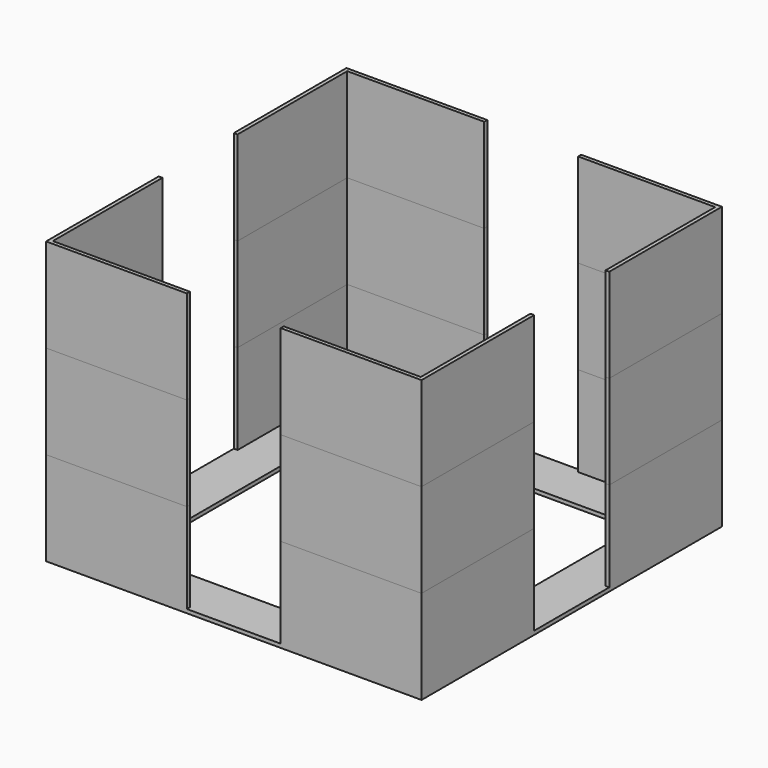
from build123d import *

# Parameters (mm, degrees)
F1_W     = 30
F1_H     = 30
F2_DEPTH = 0.4
F3_DEPTH = 10
F4_DEPTH = 10
F5_DEPTH = 10


with BuildPart() as f2:
    # F1 (on Top) → F2 (new body)
    with BuildSketch(Plane.XY):
        Polygon((-5, 20), (-20, 20), (-20, 5), (-19.6, 5), (-19.6, 19.6), (-5, 19.6), align=None)
        Polygon((20, 20), (5, 20), (5, 19.6), (19.6, 19.6), (19.6, 5), (20, 5), align=None)
        Polygon((5, 20), (-5, 20), (-5, 19.6), (-19.6, 19.6), (-19.6, 5), (-20, 5), (-20, -5), (-19.6, -5), (-19.6, -19.6), (-5, -19.6), (-5, -20), (5, -20), (5, -19.6), (19.6, -19.6), (19.6, -5), (20, -5), (20, 5), (19.6, 5), (19.6, 19.6), (5, 19.6), align=None)
        Rectangle(F1_W, F1_H, mode=Mode.SUBTRACT)
        Polygon((20, -20), (20, -5), (19.6, -5), (19.6, -19.6), (5, -19.6), (5, -20), align=None)
        Polygon((-19.6, -5), (-20, -5), (-20, -20), (-5, -20), (-5, -19.6), (-19.6, -19.6), align=None)
    extrude(amount=F2_DEPTH)

    # F1 (on Top) → F3 (join)
    with BuildSketch(Plane.XY):
        Polygon((20, -20), (20, -5), (19.6, -5), (19.6, -19.6), (5, -19.6), (5, -20), align=None)
        Polygon((-19.6, -5), (-20, -5), (-20, -20), (-5, -20), (-5, -19.6), (-19.6, -19.6), align=None)
        Polygon((20, 20), (5, 20), (5, 19.6), (19.6, 19.6), (19.6, 5), (20, 5), align=None)
        Polygon((-5, 20), (-20, 20), (-20, 5), (-19.6, 5), (-19.6, 19.6), (-5, 19.6), align=None)
    extrude(amount=F3_DEPTH)


with BuildPart() as f4:
    # F4 (new): a face of the model
    f4_faces = [f2.part.faces().sort_by_distance(p)[0] for p in [
        (-12.5, 19.7878679656, 10),
    ]]
    extrude(f4_faces, amount=F4_DEPTH)


with BuildPart() as f4b:
    # F4#2 (new): a face of the model
    f4_2_faces = [f2.part.faces().sort_by_distance(p)[0] for p in [
        (12.5, 19.7878679656, 10),
    ]]
    extrude(f4_2_faces, amount=F4_DEPTH)


with BuildPart() as f4c:
    # F4#3 (new): a face of the model
    f4_3_faces = [f2.part.faces().sort_by_distance(p)[0] for p in [
        (19.7878679656, -12.5, 10),
    ]]
    extrude(f4_3_faces, amount=F4_DEPTH)


with BuildPart() as f4d:
    # F4#4 (new): a face of the model
    f4_4_faces = [f2.part.faces().sort_by_distance(p)[0] for p in [
        (-19.8, -5.2121320344, 10),
    ]]
    extrude(f4_4_faces, amount=F4_DEPTH)


with BuildPart() as f5:
    # F5 (new): a face of the model
    f5_faces = [f4.part.faces().sort_by_distance(p)[0] for p in [
        (-12.5, 19.7878679656, 20),
    ]]
    extrude(f5_faces, amount=F5_DEPTH)


with BuildPart() as f5b:
    # F5#2 (new): a face of the model
    f5_2_faces = [f4b.part.faces().sort_by_distance(p)[0] for p in [
        (12.5, 19.7878679656, 20),
    ]]
    extrude(f5_2_faces, amount=F5_DEPTH)


with BuildPart() as f5c:
    # F5#3 (new): a face of the model
    f5_3_faces = [f4c.part.faces().sort_by_distance(p)[0] for p in [
        (19.7878679656, -12.5, 20),
    ]]
    extrude(f5_3_faces, amount=F5_DEPTH)


with BuildPart() as f5d:
    # F5#4 (new): a face of the model
    f5_4_faces = [f4d.part.faces().sort_by_distance(p)[0] for p in [
        (-19.8, -5.2121320344, 20),
    ]]
    extrude(f5_4_faces, amount=F5_DEPTH)


solid = Compound([f2.part, f4.part, f4b.part, f4c.part, f4d.part, f5.part, f5b.part, f5c.part, f5d.part])
